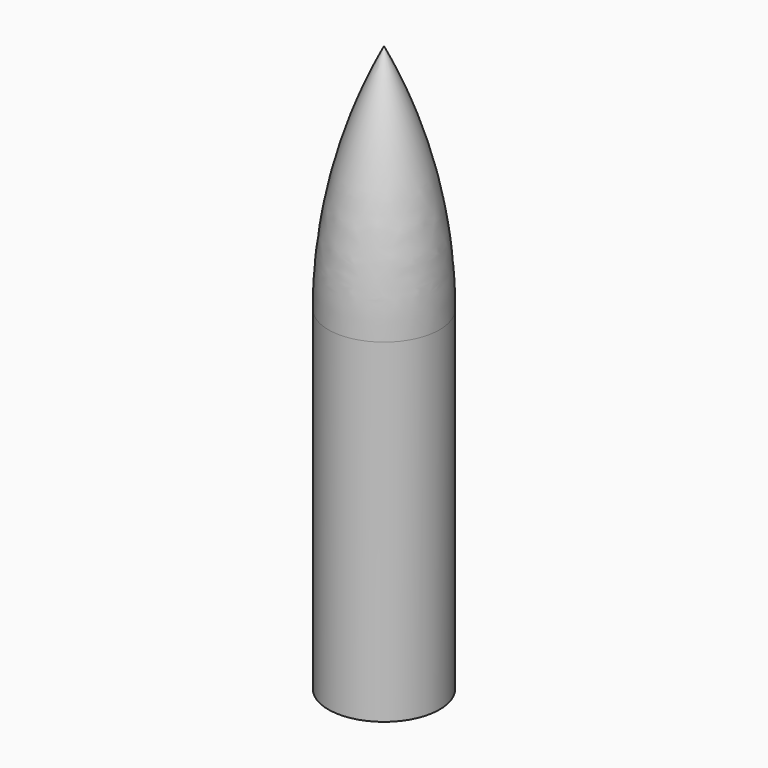
from build123d import *


with BuildPart() as f1:
    # F0 (on Right) → F1 (revolve)
    with BuildSketch(Plane.YZ):
        with BuildLine():
            Line((0, 64), (0, 0))
            Line((0, 0), (4, 0))
            Line((4, 0), (4, 6.445358))
            ThreePointArc((4, 6.445358), (4.538956, 8.058625), (5.939374, 9.023991))
            ThreePointArc((5.939374, 9.023991), (8.149446, 10.547485), (9, 13.093465))
            Line((9, 13.093465), (9, 55))
            ThreePointArc((9, 55), (6.363961, 61.363961), (0, 64))
        make_face()
    revolve(axis=Axis((0, 0, 32), (0, 0, 1)))


with BuildPart() as f3:
    # F2 (on Right) → F3 (revolve)
    with BuildSketch(Plane.YZ):
        with BuildLine():
            Line((0, 117.067881), (0, 68.34446))
            Line((0, 68.34446), (9.5, 58.026324))
            Line((9.5, 58.026324), (9.5, 0))
            Line((9.5, 0), (11.5, 0))
            Line((11.5, 0), (11.5, 69.146954))
            ThreePointArc((11.5, 69.146954), (8.584758, 93.787699), (0, 117.067881))
        make_face()
    revolve(axis=Axis((0, 0, 58.53394), (0, 0, 1)))


solid = Compound([f1.part, f3.part])
